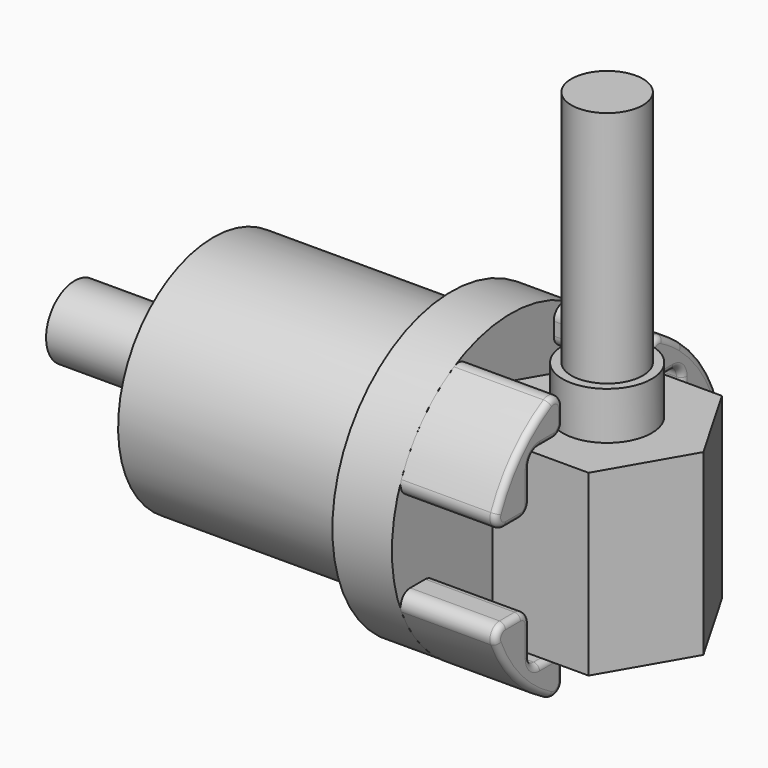
from build123d import *

# Parameters (mm, degrees)
F4_DEPTH  = 7.5
F5_R      = 12.5
F6_DEPTH  = 5
F8_DEPTH  = 8
F9_R      = 0.5
F10_R     = 3.75
F11_DEPTH = 4
F12_R     = 3
F13_DEPTH = 20


with BuildPart() as f1:
    # F0 (on Front) → F1 (revolve)
    with BuildSketch(Plane.XZ):
        Polygon((20, 10), (0, 10), (0, 3), (-11.650327, 3), (-11.650327, 0), (0, 0), (20, 0), align=None)
    revolve(axis=Axis((25.892217, 0, 0), (1, 0, 0)))


with BuildPart() as f4:
    # F3 (on Top) → F4 (new body, symmetric)
    with BuildSketch(Plane.XY):
        Polygon((41.165808, 0), (37.124356, 7), (29.041452, 7), (25, 0), (29.041452, -7), (37.124356, -7), align=None)
    extrude(amount=F4_DEPTH, both=True)

    # F10 (on face) → F11 (join)
    with BuildSketch(Plane.XY.offset(7.5)):
        with Locations((33.082904, 0)):
            Circle(F10_R)
    extrude(amount=F11_DEPTH)

    # F12 (on face) → F13 (join)
    with BuildSketch(Plane.XY.offset(11.5)):
        with Locations((33.082904, 0)):
            Circle(F12_R)
    extrude(amount=F13_DEPTH)


with BuildPart() as f6:
    # F5 (on face) → F6 (new body)
    with BuildSketch(Plane.YZ.offset(20)):
        Circle(F5_R)
    extrude(amount=F6_DEPTH)


with BuildPart() as f8:
    # F7 (on face) → F8 (new body)
    with BuildSketch(Plane.YZ.offset(25)):
        with BuildLine():
            Line((-4.5, -10.099505), (-4.5, -9))
            ThreePointArc((-4.5, -9), (-4.792893, -8.292893), (-5.5, -8))
            Line((-5.5, -8), (-7, -8))
            ThreePointArc((-7, -8), (-7.707107, -7.707107), (-8, -7))
            Line((-8, -7), (-8, -4.5))
            ThreePointArc((-8, -4.5), (-8.292893, -3.792893), (-9, -3.5))
            Line((-9, -3.5), (-10.583005, -3.5))
            ThreePointArc((-10.583005, -3.5), (-11.417063, -3.948323), (-11.503267, -4.891304))
            ThreePointArc((-11.503267, -4.891304), (-9.255381, -8.401662), (-5.978261, -10.977723))
            ThreePointArc((-5.978261, -10.977723), (-4.989246, -10.959232), (-4.5, -10.099505))
        make_face()
        with BuildLine():
            ThreePointArc((4.5, -10.099505), (4.989246, -10.959232), (5.978261, -10.977723))
            ThreePointArc((5.978261, -10.977723), (9.255381, -8.401662), (11.503267, -4.891304))
            ThreePointArc((11.503267, -4.891304), (11.417063, -3.948323), (10.583005, -3.5))
            Line((10.583005, -3.5), (9, -3.5))
            ThreePointArc((9, -3.5), (8.292893, -3.792893), (8, -4.5))
            Line((8, -4.5), (8, -7))
            ThreePointArc((8, -7), (7.707107, -7.707107), (7, -8))
            Line((7, -8), (5.5, -8))
            ThreePointArc((5.5, -8), (4.792893, -8.292893), (4.5, -9))
            Line((4.5, -9), (4.5, -10.099505))
        make_face()
        with BuildLine():
            ThreePointArc((10.583005, 3.5), (11.417063, 3.948323), (11.503267, 4.891304))
            ThreePointArc((11.503267, 4.891304), (10.032365, 7.456652), (8, 9.604686))
            ThreePointArc((8, 9.604686), (7.022767, 10.340732), (5.978261, 10.977723))
            ThreePointArc((5.978261, 10.977723), (4.989246, 10.959232), (4.5, 10.099505))
            Line((4.5, 10.099505), (4.5, 9))
            ThreePointArc((4.5, 9), (4.792893, 8.292893), (5.5, 8))
            Line((5.5, 8), (7, 8))
            ThreePointArc((7, 8), (7.707107, 7.707107), (8, 7))
            Line((8, 7), (8, 4.5))
            ThreePointArc((8, 4.5), (8.292893, 3.792893), (9, 3.5))
            Line((9, 3.5), (10.583005, 3.5))
        make_face()
        with BuildLine():
            ThreePointArc((-11.503267, 4.891304), (-11.417063, 3.948323), (-10.583005, 3.5))
            Line((-10.583005, 3.5), (-9, 3.5))
            ThreePointArc((-9, 3.5), (-8.292893, 3.792893), (-8, 4.5))
            Line((-8, 4.5), (-8, 7))
            ThreePointArc((-8, 7), (-7.707107, 7.707107), (-7, 8))
            Line((-7, 8), (-5.5, 8))
            ThreePointArc((-5.5, 8), (-4.792893, 8.292893), (-4.5, 9))
            Line((-4.5, 9), (-4.5, 10.099505))
            ThreePointArc((-4.5, 10.099505), (-4.989246, 10.959232), (-5.978261, 10.977723))
            ThreePointArc((-5.978261, 10.977723), (-9.255381, 8.401662), (-11.503267, 4.891304))
        make_face()
    extrude(amount=F8_DEPTH)

    # F9
    f9_edges = [f8.edges().sort_by_distance(p)[0] for p in [
        (33, -9.791503, 3.5),
        (33, -11.417063, 3.948323),
        (33, -9.255381, 8.401662),
        (33, -4.989246, 10.959232),
        (33, -9.255381, -8.401662),
        (33, 9.255381, -8.401662),
        (33, 9.255381, 8.401662),
    ]]
    fillet(f9_edges, radius=F9_R)


solid = Compound([f1.part, f4.part, f6.part, f8.part])
